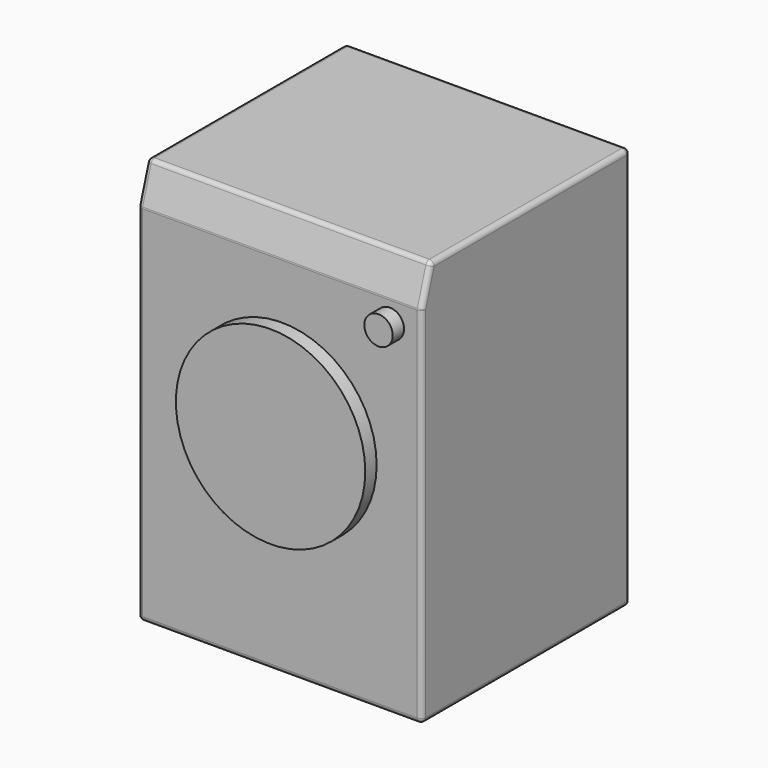
from build123d import *

# Parameters (mm, degrees)
F0_W     = 600
F0_H     = 850
F1_DEPTH = 550
F2_SIZE2 = 80
F2_SIZE  = 25
F3_R     = 10
F4_R     = 200
F5_DEPTH = 30
F4_R_2   = 30
F6_DEPTH = 30


with BuildPart() as f1:
    # F0 (on Front) → F1 (new body)
    with BuildSketch(Plane.XZ):
        with Locations((300, 425)):
            Rectangle(F0_W, F0_H)
    extrude(amount=F1_DEPTH)

    # F2
    f2_edges = [f1.edges().sort_by_distance(p)[0] for p in [
        (300, -550, 850),
    ]]
    f2_side = f1.faces().sort_by_distance((300, -275, 850))[0]
    chamfer(f2_edges, length=F2_SIZE, length2=F2_SIZE2, reference=f2_side)

    # F3
    f3_edges = [f1.edges().sort_by_distance(p)[0] for p in [
        (0, -550, 385),
        (0, 0, 425),
        (600, -550, 385),
        (600, 0, 425),
        (0, -275, 0),
        (300, -525, 850),
        (300, -550, 770),
        (600, -262.5, 850),
        (0, -262.5, 850),
        (600, -275, 0),
        (600, -537.5, 810),
        (300, -550, 0),
        (0, -537.5, 810),
        (300, 0, 0),
        (300, 0, 850),
    ]]
    fillet(f3_edges, radius=F3_R)

    # F4 (on face) → F5 (join)
    with BuildSketch(Plane.XZ.offset(550)):
        with Locations((304.4280707836, 452.6115655899)):
            Circle(F4_R)
    extrude(amount=F5_DEPTH)

    # F4 (on face) → F6 (join)
    with BuildSketch(Plane.XZ.offset(550)):
        with Locations((532.3519706726, 724.4572639465)):
            Circle(F4_R_2)
    extrude(amount=F6_DEPTH)


solid = f1.part
